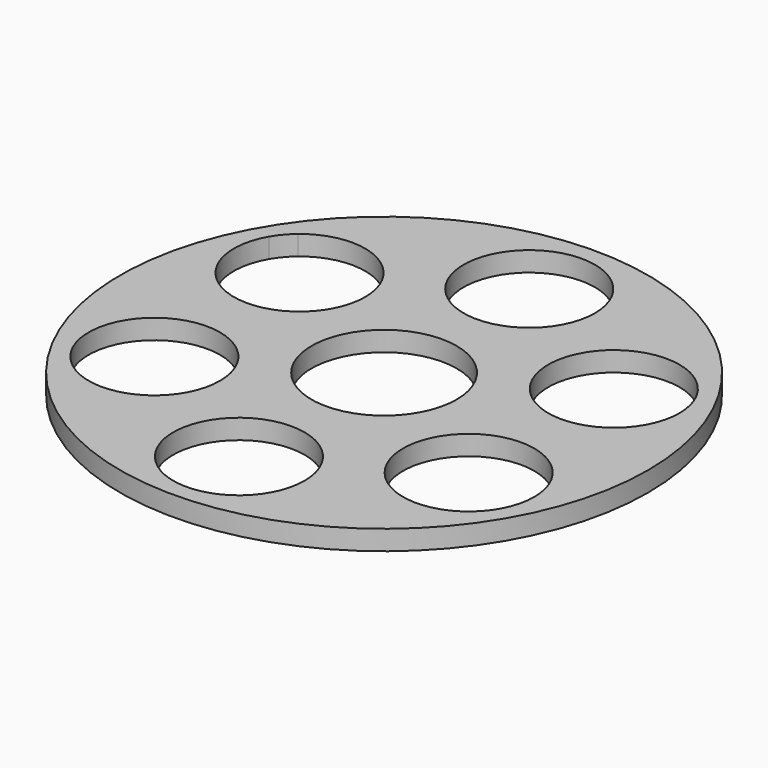
from build123d import *

# Parameters (mm, degrees)
F0_R     = 40
F0_R_2   = 9.95
F0_R_3   = 11
F1_DEPTH = 3


with BuildPart() as f1:
    # F0 (on Top) → F1 (new body)
    with BuildSketch(Plane.XY):
        Circle(F0_R)
        with Locations((-23.815699, -13.75)):
            Circle(F0_R_2, mode=Mode.SUBTRACT)
        with Locations((0, -27.5)):
            Circle(F0_R_2, mode=Mode.SUBTRACT)
        with Locations((23.815699, -13.75)):
            Circle(F0_R_2, mode=Mode.SUBTRACT)
        with BuildLine():
            ThreePointArc((-30.164523, 21.411262), (-19.582987, 22.754813), (-13.865699, 13.75))
            ThreePointArc((-13.865699, 13.75), (-26.390948, 4.139038), (-32.432651, 18.725))
            ThreePointArc((-32.432651, 18.725), (-31.418173, 20.169103), (-30.164523, 21.411262))
        make_face(mode=Mode.SUBTRACT)
        Circle(F0_R_3, mode=Mode.SUBTRACT)
        with Locations((23.815699, 13.75)):
            Circle(F0_R_2, mode=Mode.SUBTRACT)
        with Locations((0, 27.5)):
            Circle(F0_R_2, mode=Mode.SUBTRACT)
    extrude(amount=F1_DEPTH)


solid = f1.part
